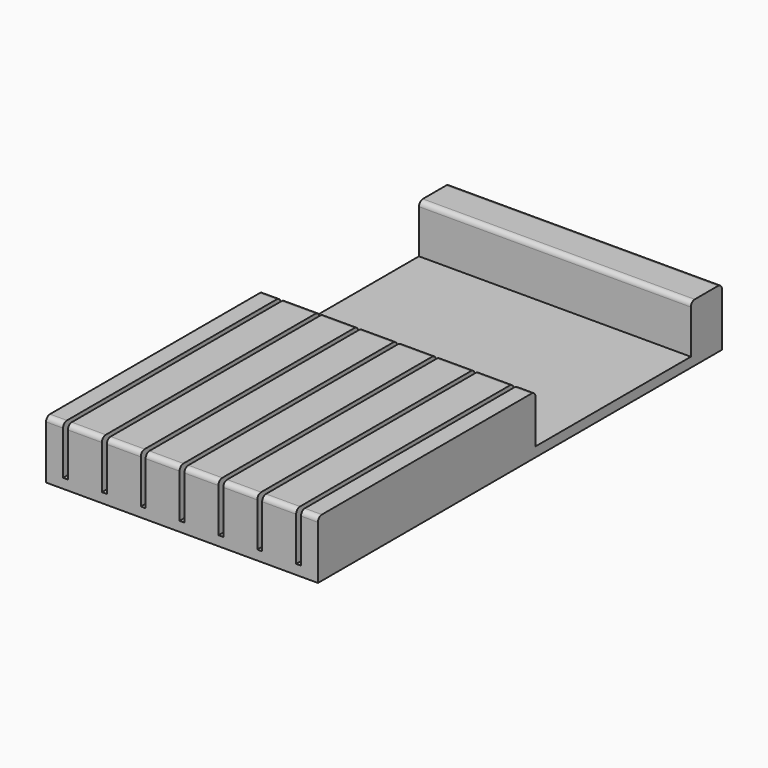
from build123d import *

# Parameters (mm, degrees)
F0_W     = 177.8
F0_H     = 330.2
F1_DEPTH = 38.1
F2_W     = 177.8
F2_H     = 127
F3_DEPTH = 31.75
F4_W     = 3.175
F4_H     = 177.8
F5_DEPTH = 31.75
F6_R     = 3.175


with BuildPart() as f1:
    # F0 (on Top) → F1 (new body)
    with BuildSketch(Plane.XY):
        with Locations((-72.766965, 0.301726)):
            Rectangle(F0_W, F0_H)
    extrude(amount=F1_DEPTH)

    # F2 (on face) → F3 (cut)
    with BuildSketch(Plane.XY.offset(38.1)):
        with Locations((-72.766965, 76.501726)):
            Rectangle(F2_W, F2_H)
    extrude(amount=-F3_DEPTH, mode=Mode.SUBTRACT)

    # F4 (on face) → F5 (cut)
    with BuildSketch(Plane.XY.offset(38.1)):
        with Locations((-148.966965, -75.898274)):
            Rectangle(F4_W, F4_H)
        with Locations((-123.566965, -75.898274)):
            Rectangle(F4_W, F4_H)
        with Locations((-98.166965, -75.898274)):
            Rectangle(F4_W, F4_H)
        with Locations((-72.766965, -75.898274)):
            Rectangle(F4_W, F4_H)
        with Locations((-47.366965, -75.898274)):
            Rectangle(F4_W, F4_H)
        with Locations((-21.966965, -75.898274)):
            Rectangle(F4_W, F4_H)
        with Locations((3.433035, -75.898274)):
            Rectangle(F4_W, F4_H)
    extrude(amount=-F5_DEPTH, mode=Mode.SUBTRACT)

    # F6
    f6_edges = [f1.edges().sort_by_distance(p)[0] for p in [
        (-72.766965, 140.001726, 38.1),
        (10.576785, -164.798274, 38.1),
        (-9.266965, -164.798274, 38.1),
        (-34.666965, -164.798274, 38.1),
        (-60.066965, -164.798274, 38.1),
        (-85.466965, -164.798274, 38.1),
        (-110.866965, -164.798274, 38.1),
        (-136.266965, -164.798274, 38.1),
        (-156.110715, -164.798274, 38.1),
        (10.576785, 13.001726, 38.1),
        (-156.110715, 13.001726, 38.1),
        (-136.266965, 13.001726, 38.1),
        (-110.866965, 13.001726, 38.1),
        (-85.466965, 13.001726, 38.1),
        (-60.066965, 13.001726, 38.1),
        (-34.666965, 13.001726, 38.1),
        (-9.266965, 13.001726, 38.1),
        (-72.766965, 165.401726, 38.1),
    ]]
    fillet(f6_edges, radius=F6_R)


solid = f1.part
